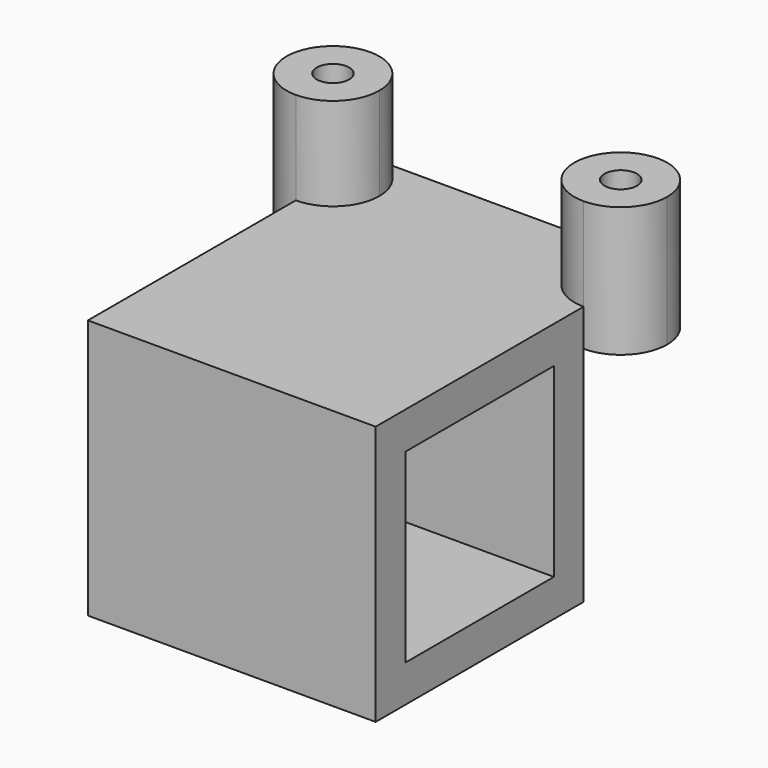
from build123d import *

# Parameters (mm, degrees)
F0_R      = 1.75
F1_DEPTH  = 4
F2_DEPTH  = 14
F1_FACE_W = 31
F1_FACE_H = 4
F3_DEPTH  = 28
F4_W      = 31
F4_H      = 4
F5_DEPTH  = 24
F7_W      = 31
F7_H      = 4
F8_DEPTH  = 24
F6_W      = 31
F6_H      = 4
F9_DEPTH  = 20


with BuildPart() as f1:
    # F0 (on Top) → F1 (new body)
    with BuildSketch(Plane.XY):
        with BuildLine():
            ThreePointArc((-4.149364, -27.437859), (-0.61383, -25.973393), (0.850636, -22.437859))
            ThreePointArc((0.850636, -22.437859), (-0.61383, -18.902325), (-4.149364, -17.437859))
            ThreePointArc((-4.149364, -17.437859), (-9.149364, -22.437859), (-4.149364, -27.437859))
        make_face()
        with Locations((-4.149364, -22.437859)):
            Circle(F0_R, mode=Mode.SUBTRACT)
        with BuildLine():
            ThreePointArc((-4.149364, -17.437859), (-0.61383, -18.902325), (0.850636, -22.437859))
            Line((0.850636, -22.437859), (21.850636, -22.437859))
            ThreePointArc((21.850636, -22.437859), (23.315102, -18.902325), (26.850636, -17.437859))
            Line((26.850636, -17.437859), (-4.149364, -17.437859))
        make_face()
        with BuildLine():
            ThreePointArc((26.850636, -17.437859), (23.315102, -18.902325), (21.850636, -22.437859))
            ThreePointArc((21.850636, -22.437859), (23.315102, -25.973393), (26.850636, -27.437859))
            ThreePointArc((26.850636, -27.437859), (30.38617, -25.973393), (31.850636, -22.437859))
            ThreePointArc((31.850636, -22.437859), (30.38617, -18.902325), (26.850636, -17.437859))
        make_face()
        with BuildLine():
            ThreePointArc((28.600636, -22.437859), (26.850636, -24.187859), (25.100636, -22.437859))
            ThreePointArc((25.100636, -22.437859), (26.850636, -20.687859), (28.600636, -22.437859))
        make_face(mode=Mode.SUBTRACT)
        with BuildLine():
            Line((21.850636, -22.437859), (0.850636, -22.437859))
            ThreePointArc((0.850636, -22.437859), (-0.61383, -25.973393), (-4.149364, -27.437859))
            Line((-4.149364, -27.437859), (26.850636, -27.437859))
            ThreePointArc((26.850636, -27.437859), (23.315102, -25.973393), (21.850636, -22.437859))
        make_face()
    extrude(amount=F1_DEPTH)

    # F0 (on Top) → F2 (join)
    with BuildSketch(Plane.XY):
        with BuildLine():
            ThreePointArc((-4.149364, -27.437859), (-0.61383, -25.973393), (0.850636, -22.437859))
            ThreePointArc((0.850636, -22.437859), (-0.61383, -18.902325), (-4.149364, -17.437859))
            ThreePointArc((-4.149364, -17.437859), (-9.149364, -22.437859), (-4.149364, -27.437859))
        make_face()
        with Locations((-4.149364, -22.437859)):
            Circle(F0_R, mode=Mode.SUBTRACT)
        with BuildLine():
            ThreePointArc((26.850636, -17.437859), (23.315102, -18.902325), (21.850636, -22.437859))
            ThreePointArc((21.850636, -22.437859), (23.315102, -25.973393), (26.850636, -27.437859))
            ThreePointArc((26.850636, -27.437859), (30.38617, -25.973393), (31.850636, -22.437859))
            ThreePointArc((31.850636, -22.437859), (30.38617, -18.902325), (26.850636, -17.437859))
        make_face()
        with BuildLine():
            ThreePointArc((28.600636, -22.437859), (26.850636, -24.187859), (25.100636, -22.437859))
            ThreePointArc((25.100636, -22.437859), (26.850636, -20.687859), (28.600636, -22.437859))
        make_face(mode=Mode.SUBTRACT)
    extrude(amount=F2_DEPTH)

    # F1_face (on face) → F3 (join)
    with BuildSketch(Plane(origin=(11.350636, -27.437859, 2), x_dir=(1, 0, 0), z_dir=(0, -1, 0))):
        Rectangle(F1_FACE_W, F1_FACE_H)
    extrude(amount=F3_DEPTH)

    # F4 (on face) → F5 (join)
    with BuildSketch(Plane(origin=(0, 0, 0), x_dir=(1, 0, 0), z_dir=(0, 0, -1))):
        with Locations((11.350636, 53.437859)):
            Rectangle(F4_W, F4_H)
    extrude(amount=F5_DEPTH)

    # F7 (on face) → F8 (join)
    with BuildSketch(Plane(origin=(0, 0, 0), x_dir=(1, 0, 0), z_dir=(0, 0, -1))):
        with Locations((11.350636, 29.437859)):
            Rectangle(F7_W, F7_H)
    extrude(amount=F8_DEPTH)

    # F6 (on face) → F9 (join, through all)
    with BuildSketch(Plane(origin=(0, -51.437859, 0), x_dir=(-1, 0, 0), z_dir=(0, 1, 0))):
        with Locations((-11.350636, -22)):
            Rectangle(F6_W, F6_H)
    extrude(amount=F9_DEPTH)


solid = f1.part
